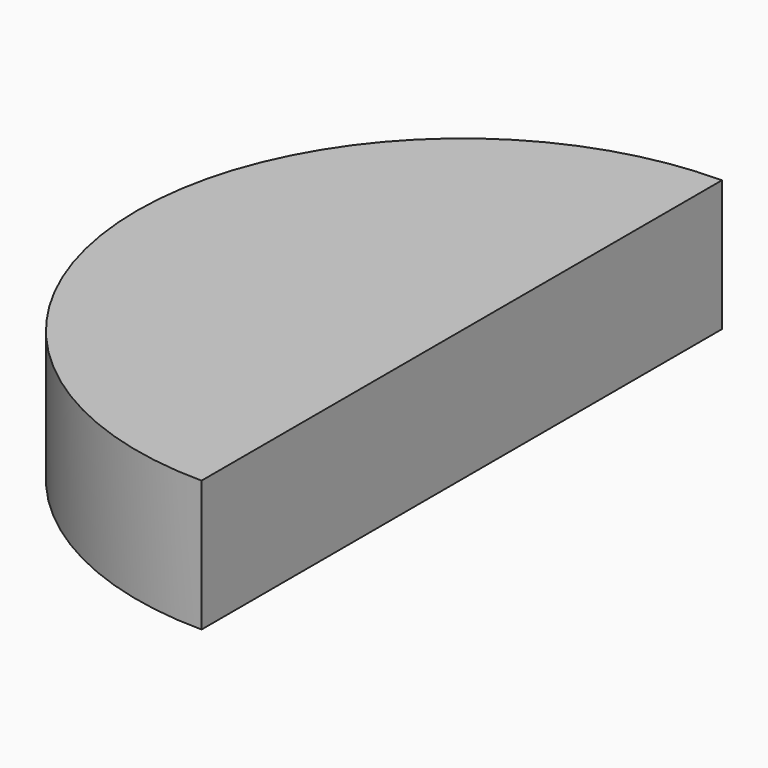
from build123d import *

# Parameters (mm, degrees)
F0_R     = 49.911
F1_DEPTH = 99.822
F4_DEPTH = 20.066


with BuildPart() as f1:
    # F0 (on Top) → F1 (new body)
    with BuildSketch(Plane.XY):
        Circle(F0_R)
    extrude(amount=F1_DEPTH)


with BuildPart() as f4:
    # F2 (on Top) → F4 (new body)
    with BuildSketch(Plane.XY):
        with BuildLine():
            Line((0, -49.6124997735), (0, 49.9553204259))
            ThreePointArc((0, 49.9553204259), (-49.6893893018, 0.1714103262), (0, -49.6124997735))
        make_face()
    extrude(amount=F4_DEPTH)


solid = f4.part
